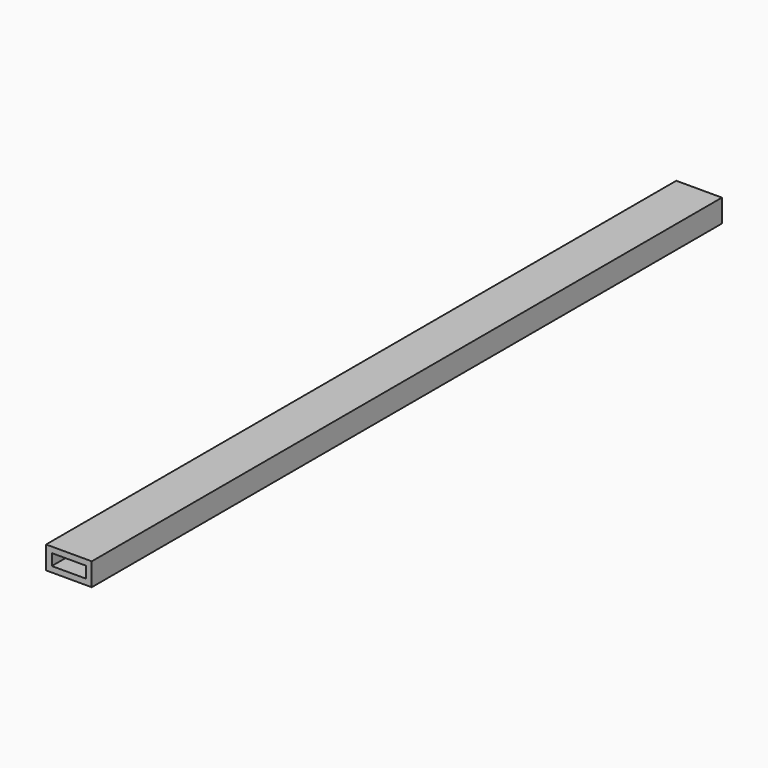
from build123d import *

# Parameters (mm, degrees)
F0_W     = 19.05
F0_H     = 6.35
F1_DEPTH = 265.43
F2_W     = 25.4
F2_H     = 12.7
F2_W_2   = 19.05
F2_H_2   = 6.35
F3_DEPTH = 86.36
F4_DEPTH = 86.36


with BuildPart() as f1:
    # F0 (on Front) → F1 (new body)
    with BuildSketch(Plane.XZ):
        Polygon((-25.4, 0), (0, 0), (0, 12.7), (-25.4, 12.7), (-25.4, 9.525), align=None)
        with Locations((-12.7, 6.35)):
            Rectangle(F0_W, F0_H, mode=Mode.SUBTRACT)
    extrude(amount=F1_DEPTH)

    # F2 (on face) → F3 (join)
    with BuildSketch(Plane.XZ.offset(265.43)):
        with Locations((-12.7, 6.35)):
            Rectangle(F2_W, F2_H)
        with Locations((-12.7, 6.35)):
            Rectangle(F2_W_2, F2_H_2, mode=Mode.SUBTRACT)
    extrude(amount=F3_DEPTH)

    # F4 (add): a face of the model
    f4_faces = [f1.faces().sort_by_distance(p)[0] for p in [
        (-12.7, 0, 0.2839806331),
    ]]
    extrude(f4_faces, amount=F4_DEPTH)


solid = f1.part
